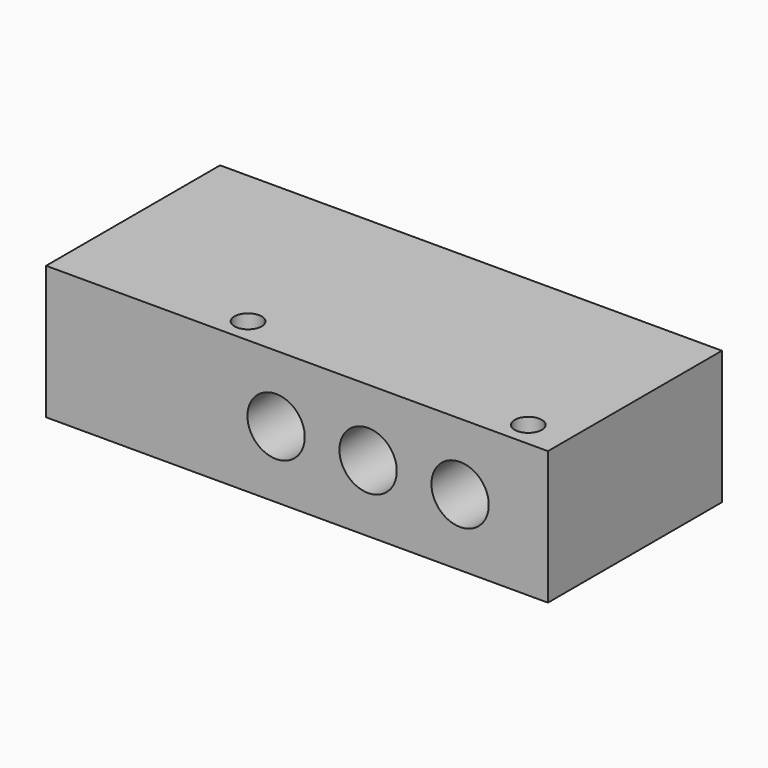
from build123d import *

# Parameters (mm, degrees)
F0_W           = 9.5
F0_H           = 6
F0_W_2         = 67
F0_H_2         = 46
F0_W_3         = 43.5
F1_DEPTH       = 31.9024
F2_D           = 6.5
F5_D           = 13.716
F5_DEPTH       = 16.5
F5_TIP         = 4.1207021253
F5_ON_F4_D     = 13.716
F5_ON_F4_DEPTH = 16.5
F5_ON_F4_TIP   = 4.1207021253


with BuildPart() as f1:
    # F0 (on Top) → F1 (new body)
    with BuildSketch(Plane.XY):
        with Locations((55.25, -23)):
            Rectangle(F0_W, F0_H)
        with Locations((17, -23)):
            Rectangle(F0_W_2, F0_H)
        with Locations((55.25, 3)):
            Rectangle(F0_W, F0_H_2)
        with Locations((-38.25, -23)):
            Rectangle(F0_W_3, F0_H)
        with Locations((17, 3)):
            Rectangle(F0_W_2, F0_H_2)
        with Locations((-38.25, 3)):
            Rectangle(F0_W_3, F0_H_2)
    extrude(amount=F1_DEPTH)

    # F2 (through all)
    with Locations(Plane(origin=(0, 0, 0), x_dir=(1, 0, 0), z_dir=(0, 0, -1))):
        with Locations((-16.5, 20), (50.5, 20)):
            Hole(F2_D / 2)

    # F5
    with Locations(Plane.XZ.offset(26)):
        with Locations((-5, 15.9512), (17, 15.9512), (39, 15.9512)):
            Hole(F5_D / 2, depth=F5_DEPTH)
            with Locations((0, 0, -(F5_DEPTH + F5_TIP / 2))):  # 118° drill point
                Cone(0, F5_D / 2, F5_TIP, mode=Mode.SUBTRACT)

    # F5 on F4
    with Locations(Plane(origin=(0, 26, 0), x_dir=(-1, 0, 0), z_dir=(0, 1, 0))):
        with Locations((-28, 15.9512), (-6, 15.9512)):
            Hole(F5_ON_F4_D / 2, depth=F5_ON_F4_DEPTH)
            with Locations((0, 0, -(F5_ON_F4_DEPTH + F5_ON_F4_TIP / 2))):  # 118° drill point
                Cone(0, F5_ON_F4_D / 2, F5_ON_F4_TIP, mode=Mode.SUBTRACT)


solid = f1.part
